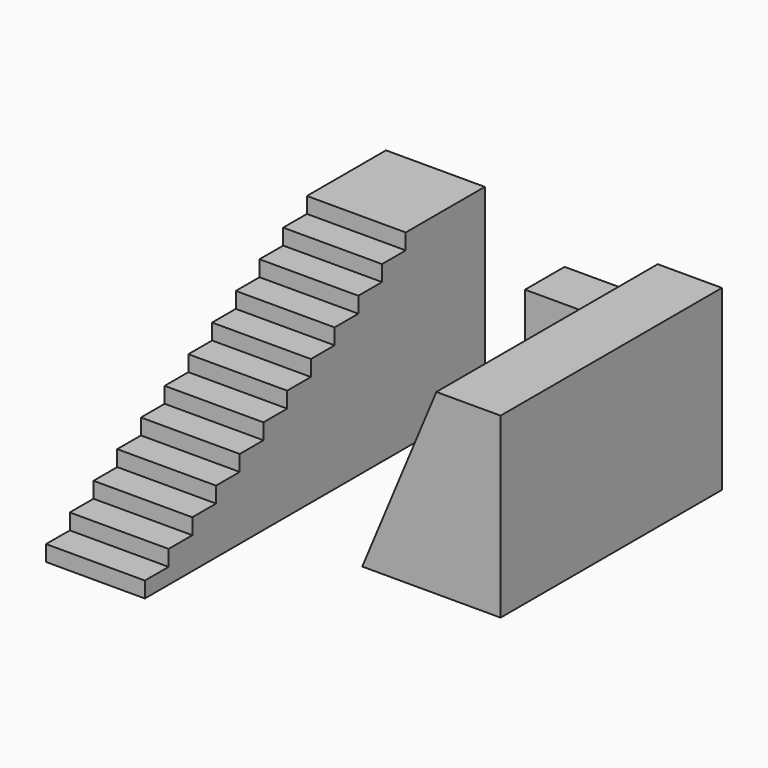
from build123d import *

# Parameters (mm, degrees)
F1_DEPTH = 2000
F3_DEPTH = 800
F7_DEPTH = 1000
F9_DEPTH = 500


with BuildPart() as f1:
    # F0 (on Front) → F1 (new body)
    with BuildSketch(Plane.XZ):
        Polygon((-1400, 0), (0, 0), (0, 1800), (-650, 1800), align=None)
    extrude(amount=F1_DEPTH)


with BuildPart() as f3:
    # F2 (on face) → F3 (new body)
    with BuildSketch(Plane(origin=(0, 0, 0), x_dir=(-1, 0, 0), z_dir=(0, 1, 0))):
        Polygon((650, 1800), (1400, 0), (1900, 0), align=None)
        Polygon((0, 1800), (0, 0), (1400, 0), (650, 1800), align=None)
    extrude(amount=F3_DEPTH)


with BuildPart() as f1_1:
    add(f1.part)

    # F4: union F3
    add(f3.part)

    # F8 (on face) → F9 (join)
    with BuildSketch(Plane(origin=(0, 800, 0), x_dir=(-1, 0, 0), z_dir=(0, 1, 0))):
        Polygon((1592.5415754318, 1469.6835279465), (879.3864389261, 1469.6835279465), (1592.5415754318, 442.7401313782), align=None)
    extrude(amount=-F9_DEPTH)


with BuildPart() as f7:
    # F6 (on offset) → F7 (new body)
    with BuildSketch(Plane.YZ.offset(-2400)):
        Polygon((-3500, 160), (-3500, 0), (800, 0), (800, 1920), (-200, 1920), (-200, 1760), (-500, 1760), (-500, 1600), (-800, 1600), (-800, 1440), (-1100, 1440), (-1100, 1280), (-1400, 1280), (-1400, 1120), (-1700, 1120), (-1700, 960), (-2000, 960), (-2000, 800), (-2300, 800), (-2300, 640), (-2600, 640), (-2600, 480), (-2900, 480), (-2900, 320), (-3200, 320), (-3200, 160), align=None)
    extrude(amount=-F7_DEPTH)


solid = Compound([f1_1.part, f7.part])
